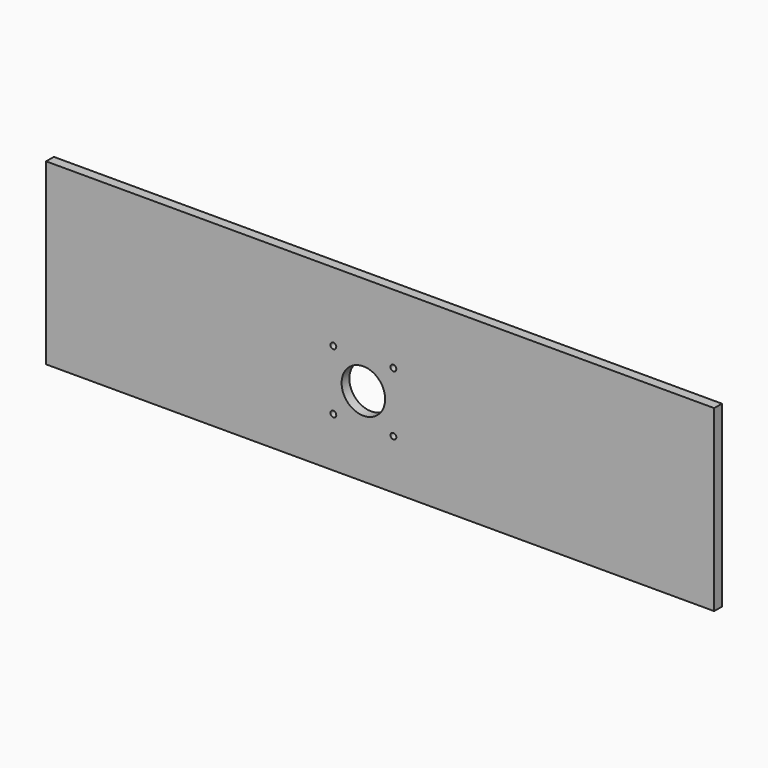
from build123d import *

# Parameters (mm, degrees)
F0_W     = 345
F0_H     = 92.3
F0_R     = 1.5
F0_R_2   = 11.25
F1_DEPTH = 5


with BuildPart() as f1:
    # F0 (on Front) → F1 (new body)
    with BuildSketch(Plane.XZ):
        with Locations((-15.941079, 28.428887)):
            Rectangle(F0_W, F0_H)
        Polygon((-45.741079, 7.278887), (-45.741079, 39.578887), (-40.741079, 44.578887), (-8.441079, 44.578887), (-3.441079, 39.578887), (-3.441079, 7.278887), (-8.441079, 2.278887), (-40.741079, 2.278887), align=None, mode=Mode.SUBTRACT)
        Polygon((-40.741079, 44.578887), (-45.741079, 39.578887), (-45.741079, 7.278887), (-40.741079, 2.278887), (-8.441079, 2.278887), (-3.441079, 7.278887), (-3.441079, 39.578887), (-8.441079, 44.578887), align=None)
        with Locations((-40.091079, 7.928887)):
            Circle(F0_R, mode=Mode.SUBTRACT)
        with Locations((-24.591079, 23.428887)):
            Circle(F0_R_2, mode=Mode.SUBTRACT)
        with Locations((-9.091079, 7.928887)):
            Circle(F0_R, mode=Mode.SUBTRACT)
        with Locations((-40.091079, 38.928887)):
            Circle(F0_R, mode=Mode.SUBTRACT)
        with Locations((-9.091079, 38.928887)):
            Circle(F0_R, mode=Mode.SUBTRACT)
    extrude(amount=F1_DEPTH)


solid = f1.part
